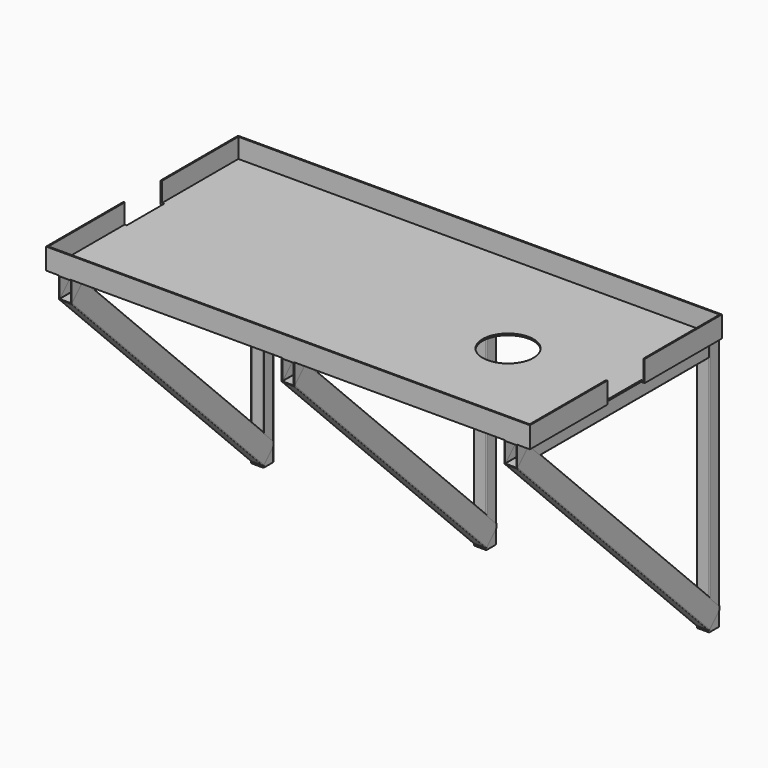
from build123d import *

# Parameters (mm, degrees)
F0_R     = 60
F1_DEPTH = 4
F2_DEPTH = 50
F4_DEPTH = 566
F5_DEPTH = 620
F7_DEPTH = 800.445
F8_ANGLE = 45
F9_DEPTH = 620


with BuildPart() as f1:
    # F0 (on Top) → F1 (new body)
    with BuildSketch(Plane.XY):
        Polygon((567.5, 55), (567.5, 280), (-567.5, 280), (-567.5, 55), (-562.5, 55), (-562.5, -55), (-567.5, -55), (-567.5, -280), (567.5, -280), (567.5, -55), (562.5, -55), (562.5, 55), align=None)
        with Locations((292.5, 0)):
            Circle(F0_R, mode=Mode.SUBTRACT)
    extrude(amount=F1_DEPTH)

    # F0 (on Top) → F2 (join)
    with BuildSketch(Plane.XY):
        Polygon((-567.5, 280), (567.5, 280), (567.5, 55), (570.5, 55), (570.5, 283), (538.5, 283), (512.5, 283), (13, 283), (-13, 283), (-512.5, 283), (-538.5, 283), (-570.5, 283), (-570.5, 55), (-567.5, 55), align=None)
        Polygon((570.5, -55), (567.5, -55), (567.5, -280), (-567.5, -280), (-567.5, -55), (-570.5, -55), (-570.5, -283), (570.5, -283), align=None)
    extrude(amount=F2_DEPTH)


with BuildPart() as f4:
    # F3 (on face) → F4 (new body)
    with BuildSketch(Plane.XZ.offset(283)):
        with BuildLine():
            Line((-512.5, 0), (-538.5, 0))
            ThreePointArc((-538.5, 0), (-539.914214, -0.585786), (-540.5, -2))
            Line((-540.5, -2), (-540.5, -48))
            ThreePointArc((-540.5, -48), (-539.914214, -49.414214), (-538.5, -50))
            Line((-538.5, -50), (-512.5, -50))
            ThreePointArc((-512.5, -50), (-511.085786, -49.414214), (-510.5, -48))
            Line((-510.5, -48), (-510.5, -2))
            ThreePointArc((-510.5, -2), (-511.085786, -0.585786), (-512.5, 0))
        make_face()
        with BuildLine():
            Line((-538.9, -48), (-538.9, -2))
            ThreePointArc((-538.9, -2), (-538.782843, -1.717157), (-538.5, -1.6))
            Line((-538.5, -1.6), (-512.5, -1.6))
            ThreePointArc((-512.5, -1.6), (-512.217157, -1.717157), (-512.1, -2))
            Line((-512.1, -2), (-512.1, -48))
            ThreePointArc((-512.1, -48), (-512.217157, -48.282843), (-512.5, -48.4))
            Line((-512.5, -48.4), (-538.5, -48.4))
            ThreePointArc((-538.5, -48.4), (-538.782843, -48.282843), (-538.9, -48))
        make_face(mode=Mode.SUBTRACT)
        with BuildLine():
            Line((512.5, -50), (538.5, -50))
            ThreePointArc((538.5, -50), (539.914214, -49.414214), (540.5, -48))
            Line((540.5, -48), (540.5, -2))
            ThreePointArc((540.5, -2), (539.914214, -0.585786), (538.5, 0))
            Line((538.5, 0), (512.5, 0))
            ThreePointArc((512.5, 0), (511.085786, -0.585786), (510.5, -2))
            Line((510.5, -2), (510.5, -48))
            ThreePointArc((510.5, -48), (511.085786, -49.414214), (512.5, -50))
        make_face()
        with BuildLine():
            ThreePointArc((538.9, -48), (538.782843, -48.282843), (538.5, -48.4))
            Line((538.5, -48.4), (512.5, -48.4))
            ThreePointArc((512.5, -48.4), (512.217157, -48.282843), (512.1, -48))
            Line((512.1, -48), (512.1, -2))
            ThreePointArc((512.1, -2), (512.217157, -1.717157), (512.5, -1.6))
            Line((512.5, -1.6), (538.5, -1.6))
            ThreePointArc((538.5, -1.6), (538.782843, -1.717157), (538.9, -2))
            Line((538.9, -2), (538.9, -48))
        make_face(mode=Mode.SUBTRACT)
        with BuildLine():
            Line((13, 0), (-13, 0))
            ThreePointArc((-13, 0), (-14.414214, -0.585786), (-15, -2))
            Line((-15, -2), (-15, -48))
            ThreePointArc((-15, -48), (-14.414214, -49.414214), (-13, -50))
            Line((-13, -50), (13, -50))
            ThreePointArc((13, -50), (14.414214, -49.414214), (15, -48))
            Line((15, -48), (15, -2))
            ThreePointArc((15, -2), (14.414214, -0.585786), (13, 0))
        make_face()
        with BuildLine():
            Line((-13.4, -48), (-13.4, -2))
            ThreePointArc((-13.4, -2), (-13.282843, -1.717157), (-13, -1.6))
            Line((-13, -1.6), (13, -1.6))
            ThreePointArc((13, -1.6), (13.282843, -1.717157), (13.4, -2))
            Line((13.4, -2), (13.4, -48))
            ThreePointArc((13.4, -48), (13.282843, -48.282843), (13, -48.4))
            Line((13, -48.4), (-13, -48.4))
            ThreePointArc((-13, -48.4), (-13.282843, -48.282843), (-13.4, -48))
        make_face(mode=Mode.SUBTRACT)
    extrude(amount=-F4_DEPTH)


with BuildPart() as f5:
    # F0 (on Top) → F5 (new body)
    with BuildSketch(Plane.XY):
        with BuildLine():
            ThreePointArc((-540.5, 285), (-539.914214, 283.585786), (-538.5, 283))
            Line((-538.5, 283), (-512.5, 283))
            ThreePointArc((-512.5, 283), (-511.085786, 283.585786), (-510.5, 285))
            Line((-510.5, 285), (-510.5, 311))
            ThreePointArc((-510.5, 311), (-511.085786, 312.414214), (-512.5, 313))
            Line((-512.5, 313), (-538.5, 313))
            ThreePointArc((-538.5, 313), (-539.914214, 312.414214), (-540.5, 311))
            Line((-540.5, 311), (-540.5, 285))
        make_face()
        with BuildLine():
            ThreePointArc((-536.9, 284.6), (-538.314214, 285.185786), (-538.9, 286.6))
            Line((-538.9, 286.6), (-538.9, 309.4))
            ThreePointArc((-538.9, 309.4), (-538.314214, 310.814214), (-536.9, 311.4))
            Line((-536.9, 311.4), (-514.1, 311.4))
            ThreePointArc((-514.1, 311.4), (-512.685786, 310.814214), (-512.1, 309.4))
            Line((-512.1, 309.4), (-512.1, 286.6))
            ThreePointArc((-512.1, 286.6), (-512.685786, 285.185786), (-514.1, 284.6))
            Line((-514.1, 284.6), (-536.9, 284.6))
        make_face(mode=Mode.SUBTRACT)
        with BuildLine():
            Line((-13, 283), (13, 283))
            ThreePointArc((13, 283), (14.414214, 283.585786), (15, 285))
            Line((15, 285), (15, 311))
            ThreePointArc((15, 311), (14.414214, 312.414214), (13, 313))
            Line((13, 313), (-13, 313))
            ThreePointArc((-13, 313), (-14.414214, 312.414214), (-15, 311))
            Line((-15, 311), (-15, 285))
            ThreePointArc((-15, 285), (-14.414214, 283.585786), (-13, 283))
        make_face()
        with BuildLine():
            Line((13.4, 309.4), (13.4, 286.6))
            ThreePointArc((13.4, 286.6), (12.814214, 285.185786), (11.4, 284.6))
            Line((11.4, 284.6), (-11.4, 284.6))
            ThreePointArc((-11.4, 284.6), (-12.814214, 285.185786), (-13.4, 286.6))
            Line((-13.4, 286.6), (-13.4, 309.4))
            ThreePointArc((-13.4, 309.4), (-12.814214, 310.814214), (-11.4, 311.4))
            Line((-11.4, 311.4), (11.4, 311.4))
            ThreePointArc((11.4, 311.4), (12.814214, 310.814214), (13.4, 309.4))
        make_face(mode=Mode.SUBTRACT)
        with BuildLine():
            Line((512.5, 283), (538.5, 283))
            ThreePointArc((538.5, 283), (539.914214, 283.585786), (540.5, 285))
            Line((540.5, 285), (540.5, 311))
            ThreePointArc((540.5, 311), (539.914214, 312.414214), (538.5, 313))
            Line((538.5, 313), (512.5, 313))
            ThreePointArc((512.5, 313), (511.085786, 312.414214), (510.5, 311))
            Line((510.5, 311), (510.5, 285))
            ThreePointArc((510.5, 285), (511.085786, 283.585786), (512.5, 283))
        make_face()
        with BuildLine():
            Line((514.1, 311.4), (536.9, 311.4))
            ThreePointArc((536.9, 311.4), (538.314214, 310.814214), (538.9, 309.4))
            Line((538.9, 309.4), (538.9, 286.6))
            ThreePointArc((538.9, 286.6), (538.314214, 285.185786), (536.9, 284.6))
            Line((536.9, 284.6), (514.1, 284.6))
            ThreePointArc((514.1, 284.6), (512.685786, 285.185786), (512.1, 286.6))
            Line((512.1, 286.6), (512.1, 309.4))
            ThreePointArc((512.1, 309.4), (512.685786, 310.814214), (514.1, 311.4))
        make_face(mode=Mode.SUBTRACT)
    extrude(amount=-F5_DEPTH)


with BuildPart() as f7:
    # F6 (on face) → F7 (new body)
    with BuildSketch(Plane(origin=(0, 0, -50), x_dir=(1, 0, 0), z_dir=(0, 0, -1))):
        with BuildLine():
            Line((-512.5, 283), (-538.5, 283))
            ThreePointArc((-538.5, 283), (-539.914214, 282.414214), (-540.5, 281))
            Line((-540.5, 281), (-540.5, 235))
            ThreePointArc((-540.5, 235), (-539.914214, 233.585786), (-538.5, 233))
            Line((-538.5, 233), (-512.5, 233))
            ThreePointArc((-512.5, 233), (-511.085786, 233.585786), (-510.5, 235))
            Line((-510.5, 235), (-510.5, 281))
            ThreePointArc((-510.5, 281), (-511.085786, 282.414214), (-512.5, 283))
        make_face()
        with BuildLine():
            ThreePointArc((-538.9, 279.4), (-538.314214, 280.814214), (-536.9, 281.4))
            Line((-536.9, 281.4), (-514.1, 281.4))
            ThreePointArc((-514.1, 281.4), (-512.685786, 280.814214), (-512.1, 279.4))
            Line((-512.1, 279.4), (-512.1, 236.6))
            ThreePointArc((-512.1, 236.6), (-512.685786, 235.185786), (-514.1, 234.6))
            Line((-514.1, 234.6), (-536.9, 234.6))
            ThreePointArc((-536.9, 234.6), (-538.314214, 235.185786), (-538.9, 236.6))
            Line((-538.9, 236.6), (-538.9, 279.4))
        make_face(mode=Mode.SUBTRACT)
        with BuildLine():
            ThreePointArc((510.5, 235), (511.085786, 233.585786), (512.5, 233))
            Line((512.5, 233), (538.5, 233))
            ThreePointArc((538.5, 233), (539.914214, 233.585786), (540.5, 235))
            Line((540.5, 235), (540.5, 281))
            ThreePointArc((540.5, 281), (539.914214, 282.414214), (538.5, 283))
            Line((538.5, 283), (512.5, 283))
            ThreePointArc((512.5, 283), (511.085786, 282.414214), (510.5, 281))
            Line((510.5, 281), (510.5, 235))
        make_face()
        with BuildLine():
            Line((512.1, 236.6), (512.1, 279.4))
            ThreePointArc((512.1, 279.4), (512.685786, 280.814214), (514.1, 281.4))
            Line((514.1, 281.4), (536.9, 281.4))
            ThreePointArc((536.9, 281.4), (538.314214, 280.814214), (538.9, 279.4))
            Line((538.9, 279.4), (538.9, 236.6))
            ThreePointArc((538.9, 236.6), (538.314214, 235.185786), (536.9, 234.6))
            Line((536.9, 234.6), (514.1, 234.6))
            ThreePointArc((514.1, 234.6), (512.685786, 235.185786), (512.1, 236.6))
        make_face(mode=Mode.SUBTRACT)
        with BuildLine():
            Line((13, 283), (-13, 283))
            ThreePointArc((-13, 283), (-14.414214, 282.414214), (-15, 281))
            Line((-15, 281), (-15, 235))
            ThreePointArc((-15, 235), (-14.414214, 233.585786), (-13, 233))
            Line((-13, 233), (13, 233))
            ThreePointArc((13, 233), (14.414214, 233.585786), (15, 235))
            Line((15, 235), (15, 281))
            ThreePointArc((15, 281), (14.414214, 282.414214), (13, 283))
        make_face()
        with BuildLine():
            ThreePointArc((-13.4, 279.4), (-12.814214, 280.814214), (-11.4, 281.4))
            Line((-11.4, 281.4), (11.4, 281.4))
            ThreePointArc((11.4, 281.4), (12.814214, 280.814214), (13.4, 279.4))
            Line((13.4, 279.4), (13.4, 236.6))
            ThreePointArc((13.4, 236.6), (12.814214, 235.185786), (11.4, 234.6))
            Line((11.4, 234.6), (-11.4, 234.6))
            ThreePointArc((-11.4, 234.6), (-12.814214, 235.185786), (-13.4, 236.6))
            Line((-13.4, 236.6), (-13.4, 279.4))
        make_face(mode=Mode.SUBTRACT)
    extrude(amount=F7_DEPTH)


with BuildPart() as f7_1:
    # F8: moved
    add(f7.part.rotate(Axis((-525.5, -283, -50), (1, 0, 0)), F8_ANGLE))

    # F0 (on Top) → F9 (cut)
    with BuildSketch(Plane.XY):
        Polygon((512.5, 313), (538.5, 313), (540.5, 313), (540.5, 333), (510.5, 333), (510.5, 313), align=None)
        Polygon((-13, 313), (13, 313), (15, 313), (15, 333), (-15, 333), (-15, 313), align=None)
        Polygon((-540.5, 313), (-538.5, 313), (-512.5, 313), (-510.5, 313), (-510.5, 333), (-540.5, 333), align=None)
    extrude(amount=-F9_DEPTH, mode=Mode.SUBTRACT)


solid = Compound([f1.part, f4.part, f5.part, f7_1.part])
